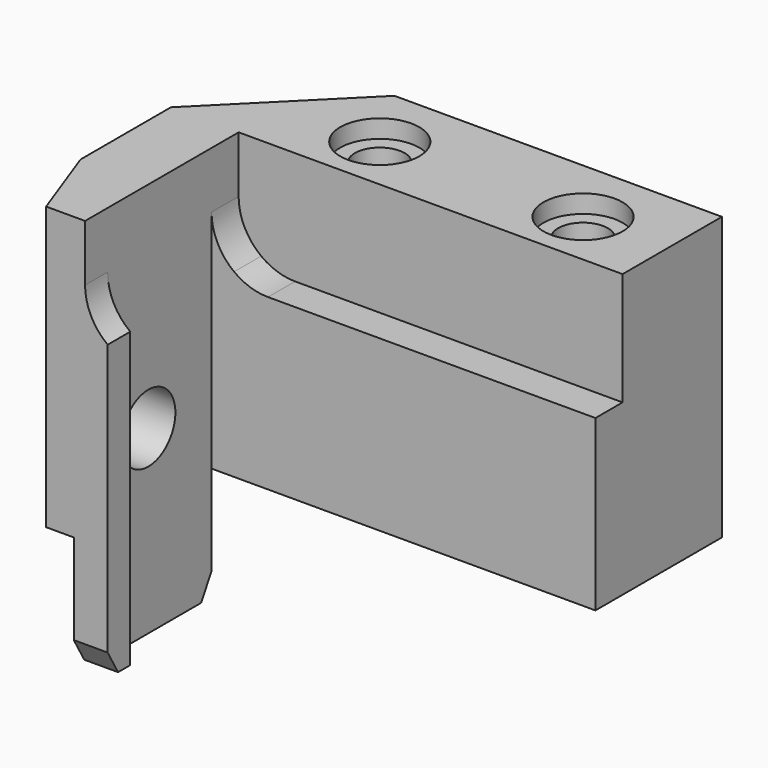
from build123d import *

# Parameters (mm, degrees)
F1_DEPTH        = 35
F3_DEPTH        = 17
F2_W            = 2.4522083601
F2_H            = 10
F2_W_2          = 2.5477916399
F2_W_3          = 32
F4_DEPTH        = 28.001
F5_W            = 2
F5_H            = 10
F6_DEPTH        = 14
F7_R            = 3
F8_DEPTH        = 40.001
F10_D           = 4.4
F10_CBORE_D     = 8.25
F10_CBORE_DEPTH = 4
F11_R           = 3.5
F11_R_2         = 2.2
F12_DEPTH       = 1.6


with BuildPart() as f1:
    # F0 (on Top) → F1 (new body)
    with BuildSketch(Plane.XY):
        Polygon((-34, 14), (0, 14), (0, 28), (-29, 28), (-40, 17), (-40, 7), (-37.4522083601, 0), (-32, 0), (-32, 2.5), (-34, 2.5), align=None)
    extrude(amount=-F1_DEPTH)

    # F2 (on face) → F3 (cut)
    with BuildSketch(Plane.XZ):
        with BuildLine():
            Line((0, 0), (-32, 0))
            Line((-32, 0), (-32, -9))
            ThreePointArc((-32, -9), (-30.5811388301, -9.7434164903), (-29, -10))
            Line((-29, -10), (0, -10))
            Line((0, -10), (0, 0))
        make_face()
        with BuildLine():
            Line((-32, 0), (-34, 0))
            Line((-34, 0), (-34, -5))
            ThreePointArc((-34, -5), (-33.472135955, -7.2360679775), (-32, -9))
            Line((-32, -9), (-32, 0))
        make_face()
    extrude(amount=-F3_DEPTH, mode=Mode.SUBTRACT)

    # F2 (on face) → F4 (cut, through all)
    with BuildSketch(Plane.XZ):
        with Locations((-36.2261041801, -30)):
            Rectangle(F2_W, F2_H)
        with Locations((-38.7261041801, -30)):
            Rectangle(F2_W_2, F2_H)
        with Locations((-16, -30)):
            Rectangle(F2_W_3, F2_H)
    extrude(amount=-F4_DEPTH, mode=Mode.SUBTRACT)

    # F5 (on face) → F6 (cut, through all)
    with BuildSketch(Plane(origin=(0, 28, 0), x_dir=(-1, 0, 0), z_dir=(0, 1, 0))):
        with Locations((33, -30)):
            Rectangle(F5_W, F5_H)
    extrude(amount=-F6_DEPTH, mode=Mode.SUBTRACT)

    # F7 (on face) → F8 (cut, through all)
    with BuildSketch(Plane.YZ):
        Polygon((23, -35), (23, -25), (14, -25), (14, -33), (14, -35), align=None)
        Polygon((14, -35), (14, -33), (12.8452994616, -35), align=None)
        with Locations((7, -19)):
            Circle(F7_R)
        Polygon((1.1547005384, -35), (0, -33), (0, -35), align=None)
    extrude(amount=-F8_DEPTH, mode=Mode.SUBTRACT)

    # F10 (through all)
    with Locations(Plane(origin=(0, 0, -25), x_dir=(1, 0, 0), z_dir=(0, 0, -1))):
        with Locations((-25.5, -22), (-7.5, -22)):
            CounterBoreHole(F10_D / 2, F10_CBORE_D / 2, F10_CBORE_DEPTH)

    # F11 (on face) → F12 (cut)
    with BuildSketch(Plane.XY):
        with Locations((-25.5, 22)):
            Circle(F11_R)
        with Locations((-25.5, 22)):
            Circle(F11_R_2, mode=Mode.SUBTRACT)
        with Locations((-7.5, 22)):
            Circle(F11_R)
        with Locations((-7.5, 22)):
            Circle(F11_R_2, mode=Mode.SUBTRACT)
    extrude(amount=-F12_DEPTH, mode=Mode.SUBTRACT)


solid = f1.part
